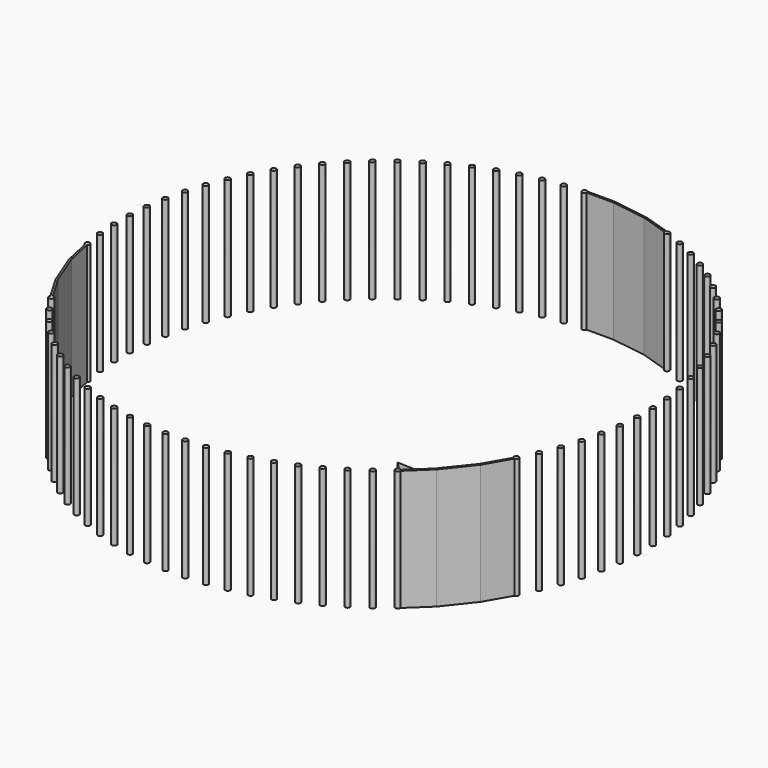
from build123d import *

# Parameters (mm, degrees)
F0_R     = 6.35
F1_DEPTH = 304.8
F5_DEPTH = 12.7
F6_DEPTH = 44.45
F7_DEPTH = 76.2


with BuildPart() as f1:
    # F0 (on Top) → F1 (new body)
    with BuildSketch(Plane.XY):
        with BuildLine():
            ThreePointArc((-565.8707947739, -345.8923390996), (-562.3055227202, -355.4097214852), (-554.1723154533, -349.3152426852))
            ThreePointArc((-554.1723154533, -349.3152426852), (-556.5784365076, -344.3384647254), (-561.9733607641, -343.1332553425))
            ThreePointArc((-561.9733607641, -343.1332553425), (-564.1913098111, -344.1324846934), (-565.8707947739, -345.8923390996))
        make_face()
        with BuildLine():
            ThreePointArc((-565.8707947739, -345.8923390996), (-564.1913098111, -344.1324846934), (-561.9733607641, -343.1332553425))
            Line((-561.9733607641, -343.1332553425), (-598.5481113266, -280.9820811185))
            Line((-598.5481113266, -280.9820811185), (-630.6819969736, -198.6116968448))
            Line((-630.6819969736, -198.6116968448), (-645.2309321327, -131.2460312879))
            ThreePointArc((-645.2309321327, -131.2460312879), (-647.4780472632, -132.0143596418), (-649.8502906021, -131.9033803191))
            Line((-649.8502906021, -131.9033803191), (-634.7964015982, -201.0353737262))
            Line((-634.7964015982, -201.0353737262), (-602.0015041209, -284.280052199))
            Line((-602.0015041209, -284.280052199), (-565.8707947739, -345.8923390996))
        make_face()
        with BuildLine():
            ThreePointArc((-649.8502906021, -131.9033803191), (-647.4780472632, -132.0143596418), (-645.2309321327, -131.2460312879))
            ThreePointArc((-645.2309321327, -131.2460312879), (-642.8830114449, -128.9192866982), (-642.0226593235, -125.7276936525))
            ThreePointArc((-642.0226593235, -125.7276936525), (-652.3058222607, -120.7424424743), (-649.8502906021, -131.9033803191))
        make_face()
        with Locations((-638.3042364059, 169.5164385843)):
            Circle(F0_R)
        with Locations((-649.2381527591, 121.0911766267)):
            Circle(F0_R)
        with Locations((-656.5034717409, 71.9813847051)):
            Circle(F0_R)
        with Locations((-660.0591370955, 22.464581836)):
            Circle(F0_R)
        with Locations((-659.8850557882, -27.1794129488)):
            Circle(F0_R)
        with Locations((-655.982211551, -76.6700618569)):
            Circle(F0_R)
        with Locations((-623.7635101495, 216.9835198347)):
            Circle(F0_R)
        with Locations((-605.6981435104, 263.2241843053)):
            Circle(F0_R)
        with Locations((-584.2102237218, 307.9771263946)):
            Circle(F0_R)
        with Locations((-559.4211788355, 350.9894476074)):
            Circle(F0_R)
        with Locations((-531.4710915335, 392.0180856826)):
            Circle(F0_R)
        with Locations((-500.5179075213, 430.8311881352)):
            Circle(F0_R)
        with Locations((-466.7365429785, 467.2094224535)):
            Circle(F0_R)
        with Locations((-430.3178961088, 500.9472155448)):
            Circle(F0_R)
        with Locations((-391.4677683759, 531.8539154272)):
            Circle(F0_R)
        with Locations((-350.4057015211, 559.7548686027)):
            Circle(F0_R)
        with Locations((-307.3637369349, 584.4924070222)):
            Circle(F0_R)
        with Locations((-262.5851043932, 605.9267390664)):
            Circle(F0_R)
        with Locations((-216.3228475675, 623.9367395073)):
            Circle(F0_R)
        with Locations((-168.8383940776, 638.4206339857)):
            Circle(F0_R)
        with Locations((-120.4000781664, 649.2965741369)):
            Circle(F0_R)
        with Locations((-71.281624345, 656.5031001158)):
            Circle(F0_R)
        with BuildLine():
            ThreePointArc((-15.4820777765, 659.0494082091), (-15.4284950914, 659.5231055958), (-15.4106005781, 659.9994879053))
            ThreePointArc((-15.4106005781, 659.9994879053), (-15.7140273771, 661.9389343532), (-16.5953100346, 663.693032761))
            ThreePointArc((-16.5953100346, 663.693032761), (-27.935633227, 658.5191258599), (-15.4820777765, 659.0494082091))
        make_face()
        with BuildLine():
            ThreePointArc((-16.5953100346, 663.693032761), (-15.7140273771, 661.9389343532), (-15.4106005781, 659.9994879053))
            ThreePointArc((-15.4106005781, 659.9994879053), (-15.4284950914, 659.5231055958), (-15.4820777765, 659.0494082091))
            Line((-15.4820777765, 659.0494082091), (52.2255059002, 659.0494082091))
            Line((52.2255059002, 659.0494082091), (139.9061864283, 646.1373666274))
            Line((139.9061864283, 646.1373666274), (208.7915377902, 624.1690799432))
            ThreePointArc((208.7915377902, 624.1690799432), (209.202124469, 626.5668238517), (210.4841338685, 628.634239913))
            Line((210.4841338685, 628.634239913), (144.2443160592, 649.7482968884))
            Line((144.2443160592, 649.7482968884), (53.3387381584, 663.693032761))
            Line((53.3387381584, 663.693032761), (-16.5953100346, 663.693032761))
        make_face()
        with BuildLine():
            ThreePointArc((221.4898371948, 624.3160311944), (217.4591888152, 630.2273007755), (210.4841338685, 628.634239913))
            ThreePointArc((210.4841338685, 628.634239913), (209.202124469, 626.5668238517), (208.7915377902, 624.1690799432))
            ThreePointArc((208.7915377902, 624.1690799432), (215.2133177402, 617.9664563575), (221.4898371948, 624.3160311944))
        make_face()
        with Locations((261.4336870794, 606.3873952911)):
            Circle(F0_R)
        with Locations((306.2499355146, 585.0318246201)):
            Circle(F0_R)
        with Locations((349.3353262617, 560.3699993297)):
            Circle(F0_R)
        with Locations((390.4463841441, 532.5412831847)):
            Circle(F0_R)
        with Locations((429.3507909234, 501.7029360234)):
            Circle(F0_R)
        with Locations((465.8286981278, 468.0292250832)):
            Circle(F0_R)
        with Locations((499.6739694139, 431.7104402184)):
            Circle(F0_R)
        with Locations((530.6953454417, 392.9518185732)):
            Circle(F0_R)
        with Locations((558.7175246789, 351.9723847888)):
            Circle(F0_R)
        with Locations((583.5821540292, 309.0037132971)):
            Circle(F0_R)
        with Locations((605.1487236835, 264.2886196951)):
            Circle(F0_R)
        with Locations((623.2953611402, 218.0797885964)):
            Circle(F0_R)
        with Locations((637.9195199053, 170.6383457126)):
            Circle(F0_R)
        with Locations((648.9385589822, 122.2323822338)):
            Circle(F0_R)
        with Locations((656.2902098746, 73.1354398479)):
            Circle(F0_R)
        with Locations((659.9329284659, 23.6249649587)):
            Circle(F0_R)
        with Locations((659.8461297844, -26.0192591614)):
            Circle(F0_R)
        with Locations((656.0303043286, -75.516693424)):
            Circle(F0_R)
        with Locations((648.5070152958, -124.5876282492)):
            Circle(F0_R)
        with Locations((637.3187767283, -172.9547642016)):
            Circle(F0_R)
        with Locations((622.6110556209, -220.1122241407)):
            Circle(F0_R)
        with Locations((604.3201823599, -266.2641523544)):
            Circle(F0_R)
        with BuildLine():
            ThreePointArc((582.6140589814, -317.2616688628), (587.1041870419, -315.4017969233), (588.9640589814, -310.9116688628))
            ThreePointArc((588.9640589814, -310.9116688628), (580.0791004086, -305.0896000695), (578.2880007029, -315.5600793192))
            ThreePointArc((578.2880007029, -315.5600793192), (580.2897210539, -316.8209795839), (582.6140589814, -317.2616688628))
        make_face()
        with BuildLine():
            ThreePointArc((582.6140589814, -317.2616688628), (580.2897210539, -316.8209795839), (578.2880007029, -315.5600793192))
            Line((578.2880007029, -315.5600793192), (542.5144767166, -377.8882311909))
            Line((542.5144767166, -377.8882311909), (487.861052333, -446.2327484531))
            Line((487.861052333, -446.2327484531), (437.9254207537, -493.8962727466))
            ThreePointArc((437.9254207537, -493.8962727466), (439.2549308142, -495.9334669617), (439.7208959537, -498.3210669617))
            Line((439.7208959537, -498.3210669617), (491.6894951082, -449.0867913675))
            Line((491.6894951082, -449.0867913675), (547.1429244204, -379.0629681373))
            Line((547.1429244204, -379.0629681373), (582.6140589814, -317.2616688628))
        make_face()
        with BuildLine():
            ThreePointArc((439.7208959537, -498.3210669617), (439.2549308142, -495.9334669617), (437.9254207537, -493.8962727466))
            ThreePointArc((437.9254207537, -493.8962727466), (427.4868610932, -500.7086669617), (439.7208959537, -498.3210669617))
        make_face()
        with Locations((-532.7013902635, -390.4315733103)):
            Circle(F0_R)
        with Locations((-501.8704159558, -429.3418231905)):
            Circle(F0_R)
        with Locations((-468.203618104, -465.8261108345)):
            Circle(F0_R)
        with Locations((-431.8816322556, -499.6865744024)):
            Circle(F0_R)
        with Locations((-393.1282926682, -530.7145487692)):
            Circle(F0_R)
        with Locations((-352.1536303502, -558.74370449)):
            Circle(F0_R)
        with Locations((-309.18919277, -583.6156490441)):
            Circle(F0_R)
        with Locations((-264.4777715988, -605.1898312845)):
            Circle(F0_R)
        with Locations((-218.2720306973, -623.3443356907)):
            Circle(F0_R)
        with Locations((-170.8330783144, -637.9765713129)):
            Circle(F0_R)
        with Locations((-122.4289915665, -649.0038515119)):
            Circle(F0_R)
        with Locations((-73.333301536, -656.3638612212)):
            Circle(F0_R)
        with Locations((-23.8234475497, -660.0150090885)):
            Circle(F0_R)
        with Locations((25.8207906286, -659.9366625083)):
            Circle(F0_R)
        with Locations((75.3188738312, -656.1292642164)):
            Circle(F0_R)
        with Locations((124.3910888111, -648.6143297882)):
            Circle(F0_R)
        with Locations((172.7601288987, -637.4343260542)):
            Circle(F0_R)
        with Locations((220.15266106, -622.6524311204)):
            Circle(F0_R)
        with Locations((266.3008704988, -604.3521773493)):
            Circle(F0_R)
        with Locations((310.9439740761, -582.6369793195)):
            Circle(F0_R)
        with Locations((353.8296939933, -557.6295494301)):
            Circle(F0_R)
        with Locations((394.715683412, -529.4712044549)):
            Circle(F0_R)
    extrude(amount=F1_DEPTH)

    # F2 (on face) → F5 (join)
    with BuildSketch(Plane(origin=(571.2287853082, -327.8593386648, 0), x_dir=(-0.4977895239, -0.8672978669, 0), z_dir=(-0.8672978669, 0.4977895239, 0))):
        Polygon((-14.1811248651, 12.7), (-14.1811248651, 0), (57.6836337732, 24.6538446368), (57.6836337732, 37.3538446368), align=None)
        Polygon((-14.1811248651, 96.7263217688), (-14.1811248651, 84.0263217688), (57.6836337732, 111.1531711049), (57.6836337732, 123.8531711049), align=None)
        Polygon((-14.1811248651, 180.7495217688), (-14.1811248651, 168.0495217688), (57.6836337732, 195.5481106878), (57.6836337732, 208.1063016205), align=None)
    extrude(amount=F5_DEPTH)

    # F3 (on face) → F6 (join)
    with BuildSketch(Plane(origin=(515.2255876405, -412.0131917321, 0), x_dir=(-0.6245404225, -0.7809924844, 0), z_dir=(-0.7809924844, 0.6245404225, 0))):
        Polygon((-43.6943520257, 37.1049158275), (-43.6943520257, 24.4060177356), (43.8154750605, 61.1117258668), (43.8154750605, 73.8117258668), align=None)
        Polygon((-43.6943520257, 123.8541837454), (-43.6943520257, 111.1541837454), (43.8154750605, 150.5286012173), (43.8154750605, 163.2286012173), align=None)
        Polygon((-43.6943520257, 208.362945509), (-43.6943520257, 195.662945509), (43.8154750605, 235.1127713919), (43.8154750605, 247.8127713919), align=None)
    extrude(amount=F6_DEPTH)

    # F4 (on face) → F7 (join)
    with BuildSketch(Plane(origin=(455.4539439415, -477.1653100178, 0), x_dir=(-0.7233722273, -0.6904582687, 0), z_dir=(-0.6904582687, 0.7233722273, 0))):
        Polygon((24.2316784185, 105.9604287148), (-44.8000450809, 73.3024153531), (-44.8000450809, 60.6024153531), (24.2316784185, 93.2604287148), align=None)
        Polygon((-44.8000450809, 162.8224637032), (-44.8000450809, 150.1224637032), (24.2316784185, 184.0628087521), (24.2316784185, 196.7628087521), align=None)
        Polygon((-44.8000450809, 247.7438535213), (-44.8000450809, 235.0438535213), (24.2316784185, 268.8813209534), (24.2316784185, 281.5813209534), align=None)
    extrude(amount=F7_DEPTH)


solid = f1.part
